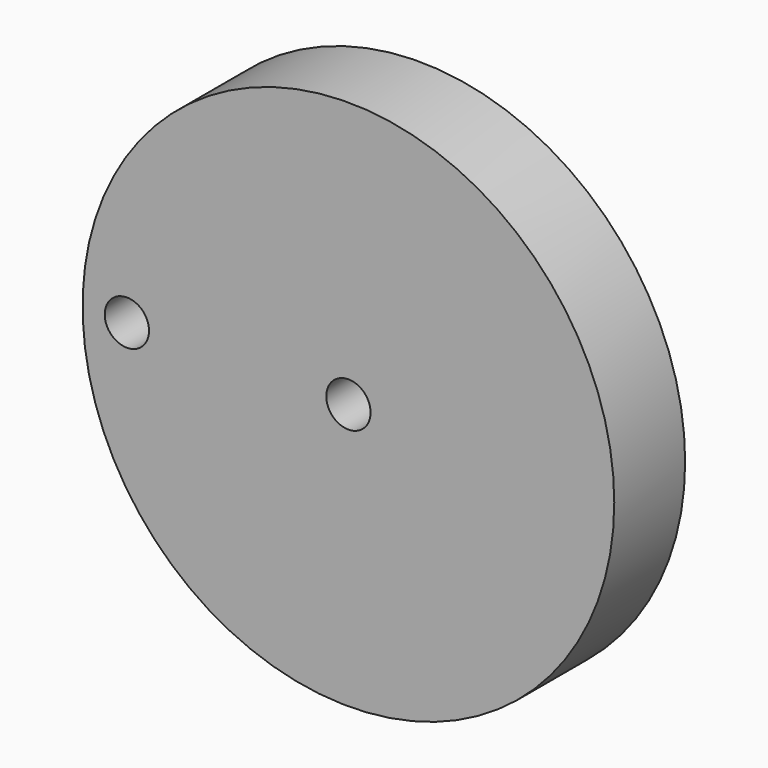
from build123d import *

# Parameters (mm, degrees)
F0_R     = 152.4
F1_DEPTH = 50.8
F2_R     = 12.7
F3_DEPTH = 50.801


with BuildPart() as f1:
    # F0 (on Front) → F1 (new body)
    with BuildSketch(Plane.XZ):
        Circle(F0_R)
    extrude(amount=F1_DEPTH)

    # F2 (on face) → F3 (cut, through all)
    with BuildSketch(Plane.XZ.offset(50.8)):
        with Locations((-127, 0)):
            Circle(F2_R)
        Circle(F2_R)
    extrude(amount=-F3_DEPTH, mode=Mode.SUBTRACT)


solid = f1.part
